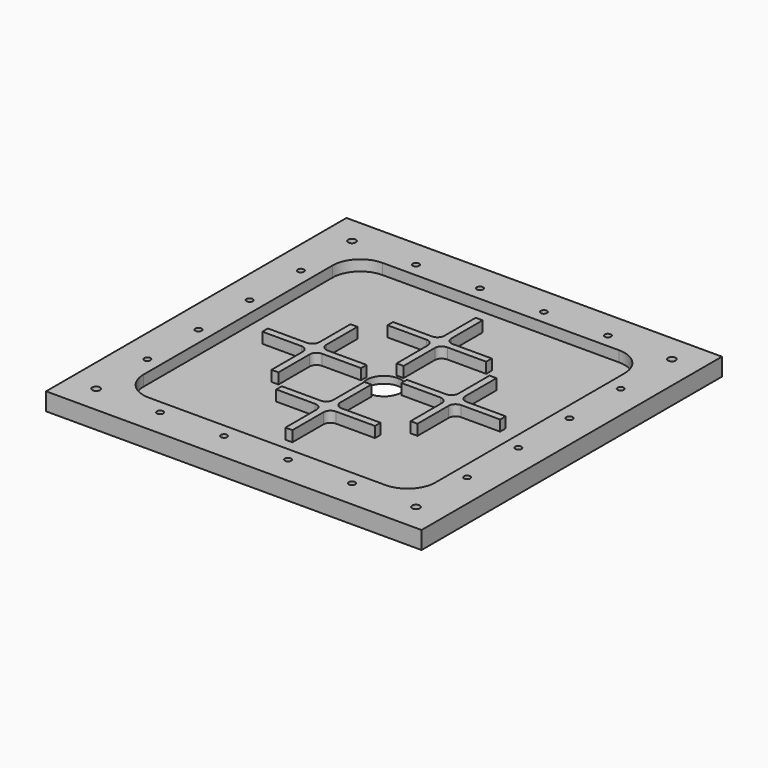
from build123d import *

# Parameters (mm, degrees)
F0_W     = 270
F0_H     = 270
F0_R     = 2.75
F0_R_2   = 2.25
F0_R_3   = 12.5
F1_DEPTH = 12.7
F2_R     = 3.75
F2_R_2   = 2.25
F3_DEPTH = 3.7
F4_R     = 12.5
F5_DEPTH = 7.7
F7_DEPTH = 12.7


with BuildPart() as f1:
    # F0 (on Top) → F1 (new body)
    with BuildSketch(Plane.XY):
        with Locations((135, 135)):
            Rectangle(F0_W, F0_H)
        with Locations((20, 20)):
            Circle(F0_R, mode=Mode.SUBTRACT)
        with Locations((66, 20)):
            Circle(F0_R_2, mode=Mode.SUBTRACT)
        with Locations((20, 66)):
            Circle(F0_R_2, mode=Mode.SUBTRACT)
        with Locations((112, 20)):
            Circle(F0_R_2, mode=Mode.SUBTRACT)
        with Locations((20, 112)):
            Circle(F0_R_2, mode=Mode.SUBTRACT)
        with Locations((158, 20)):
            Circle(F0_R_2, mode=Mode.SUBTRACT)
        with Locations((204, 20)):
            Circle(F0_R_2, mode=Mode.SUBTRACT)
        with Locations((250, 20)):
            Circle(F0_R, mode=Mode.SUBTRACT)
        with Locations((250, 66)):
            Circle(F0_R_2, mode=Mode.SUBTRACT)
        with Locations((250, 112)):
            Circle(F0_R_2, mode=Mode.SUBTRACT)
        with Locations((20, 158)):
            Circle(F0_R_2, mode=Mode.SUBTRACT)
        with Locations((20, 204)):
            Circle(F0_R_2, mode=Mode.SUBTRACT)
        with Locations((20, 250)):
            Circle(F0_R, mode=Mode.SUBTRACT)
        with Locations((66, 250)):
            Circle(F0_R_2, mode=Mode.SUBTRACT)
        with Locations((112, 250)):
            Circle(F0_R_2, mode=Mode.SUBTRACT)
        with Locations((135, 135)):
            Circle(F0_R_3, mode=Mode.SUBTRACT)
        with Locations((250, 158)):
            Circle(F0_R_2, mode=Mode.SUBTRACT)
        with Locations((158, 250)):
            Circle(F0_R_2, mode=Mode.SUBTRACT)
        with Locations((250, 204)):
            Circle(F0_R_2, mode=Mode.SUBTRACT)
        with Locations((204, 250)):
            Circle(F0_R_2, mode=Mode.SUBTRACT)
        with Locations((250, 250)):
            Circle(F0_R, mode=Mode.SUBTRACT)
    extrude(amount=F1_DEPTH)

    # F2 (on face) → F3 (cut)
    with BuildSketch(Plane.XY):
        with Locations((20, 204)):
            Circle(F2_R)
        with Locations((20, 204)):
            Circle(F2_R_2, mode=Mode.SUBTRACT)
        with Locations((66, 250)):
            Circle(F2_R)
        with Locations((66, 250)):
            Circle(F2_R_2, mode=Mode.SUBTRACT)
        with Locations((20, 158)):
            Circle(F2_R)
        with Locations((20, 158)):
            Circle(F2_R_2, mode=Mode.SUBTRACT)
        with Locations((20, 112)):
            Circle(F2_R)
        with Locations((20, 112)):
            Circle(F2_R_2, mode=Mode.SUBTRACT)
        with Locations((20, 66)):
            Circle(F2_R)
        with Locations((20, 66)):
            Circle(F2_R_2, mode=Mode.SUBTRACT)
        with Locations((66, 20)):
            Circle(F2_R)
        with Locations((66, 20)):
            Circle(F2_R_2, mode=Mode.SUBTRACT)
        with Locations((112, 20)):
            Circle(F2_R)
        with Locations((112, 20)):
            Circle(F2_R_2, mode=Mode.SUBTRACT)
        with Locations((158, 20)):
            Circle(F2_R)
        with Locations((158, 20)):
            Circle(F2_R_2, mode=Mode.SUBTRACT)
        with Locations((204, 20)):
            Circle(F2_R)
        with Locations((204, 20)):
            Circle(F2_R_2, mode=Mode.SUBTRACT)
        with Locations((250, 66)):
            Circle(F2_R)
        with Locations((250, 66)):
            Circle(F2_R_2, mode=Mode.SUBTRACT)
        with Locations((250, 112)):
            Circle(F2_R)
        with Locations((250, 112)):
            Circle(F2_R_2, mode=Mode.SUBTRACT)
        with Locations((250, 158)):
            Circle(F2_R)
        with Locations((250, 158)):
            Circle(F2_R_2, mode=Mode.SUBTRACT)
        with Locations((250, 204)):
            Circle(F2_R)
        with Locations((250, 204)):
            Circle(F2_R_2, mode=Mode.SUBTRACT)
        with Locations((112, 250)):
            Circle(F2_R)
        with Locations((112, 250)):
            Circle(F2_R_2, mode=Mode.SUBTRACT)
        with Locations((158, 250)):
            Circle(F2_R)
        with Locations((158, 250)):
            Circle(F2_R_2, mode=Mode.SUBTRACT)
        with Locations((204, 250)):
            Circle(F2_R)
        with Locations((204, 250)):
            Circle(F2_R_2, mode=Mode.SUBTRACT)
    extrude(amount=F3_DEPTH, mode=Mode.SUBTRACT)

    # F4 (on face) → F5 (cut)
    with BuildSketch(Plane.XY.offset(12.7)):
        with BuildLine():
            Line((220, 240), (50, 240))
            ThreePointArc((50, 240), (35.857864, 234.142136), (30, 220))
            Line((30, 220), (30, 50))
            ThreePointArc((30, 50), (35.857864, 35.857864), (50, 30))
            Line((50, 30), (220, 30))
            ThreePointArc((220, 30), (234.142136, 35.857864), (240, 50))
            Line((240, 50), (240, 220))
            ThreePointArc((240, 220), (234.142136, 234.142136), (220, 240))
        make_face()
        with Locations((135, 135)):
            Circle(F4_R, mode=Mode.SUBTRACT)
    extrude(amount=-F5_DEPTH, mode=Mode.SUBTRACT)

    # F6 (on face) → F7 (join)
    with BuildSketch(Plane.XY):
        with BuildLine():
            Line((87.5, 170.5), (82.5, 170.5))
            Line((82.5, 170.5), (82.5, 142.5))
            ThreePointArc((82.5, 142.5), (81.035534, 138.964466), (77.5, 137.5))
            Line((77.5, 137.5), (49.5, 137.5))
            Line((49.5, 137.5), (49.5, 132.5))
            Line((49.5, 132.5), (77.5, 132.5))
            ThreePointArc((77.5, 132.5), (81.035534, 131.035534), (82.5, 127.5))
            Line((82.5, 127.5), (82.5, 99.5))
            Line((82.5, 99.5), (87.5, 99.5))
            Line((87.5, 99.5), (87.5, 127.5))
            ThreePointArc((87.5, 127.5), (88.964466, 131.035534), (92.5, 132.5))
            Line((92.5, 132.5), (120.5, 132.5))
            Line((120.5, 132.5), (120.5, 137.5))
            Line((120.5, 137.5), (92.5, 137.5))
            ThreePointArc((92.5, 137.5), (88.964466, 138.964466), (87.5, 142.5))
            Line((87.5, 142.5), (87.5, 170.5))
        make_face()
        with BuildLine():
            Line((182.5, 170.5), (182.5, 142.5))
            ThreePointArc((182.5, 142.5), (181.035534, 138.964466), (177.5, 137.5))
            Line((177.5, 137.5), (149.5, 137.5))
            Line((149.5, 137.5), (149.5, 132.5))
            Line((149.5, 132.5), (177.5, 132.5))
            ThreePointArc((177.5, 132.5), (181.035534, 131.035534), (182.5, 127.5))
            Line((182.5, 127.5), (182.5, 99.5))
            Line((182.5, 99.5), (187.5, 99.5))
            Line((187.5, 99.5), (187.5, 127.5))
            ThreePointArc((187.5, 127.5), (188.964466, 131.035534), (192.5, 132.5))
            Line((192.5, 132.5), (220.5, 132.5))
            Line((220.5, 132.5), (220.5, 137.5))
            Line((220.5, 137.5), (192.5, 137.5))
            ThreePointArc((192.5, 137.5), (188.964466, 138.964466), (187.5, 142.5))
            Line((187.5, 142.5), (187.5, 170.5))
            Line((187.5, 170.5), (182.5, 170.5))
        make_face()
        with BuildLine():
            Line((137.5, 192.5), (137.5, 220.5))
            Line((137.5, 220.5), (132.5, 220.5))
            Line((132.5, 220.5), (132.5, 192.5))
            ThreePointArc((132.5, 192.5), (131.035534, 188.964466), (127.5, 187.5))
            Line((127.5, 187.5), (99.5, 187.5))
            Line((99.5, 187.5), (99.5, 182.5))
            Line((99.5, 182.5), (127.5, 182.5))
            ThreePointArc((127.5, 182.5), (131.035534, 181.035534), (132.5, 177.5))
            Line((132.5, 177.5), (132.5, 149.5))
            Line((132.5, 149.5), (137.5, 149.5))
            Line((137.5, 149.5), (137.5, 177.5))
            ThreePointArc((137.5, 177.5), (138.964466, 181.035534), (142.5, 182.5))
            Line((142.5, 182.5), (170.5, 182.5))
            Line((170.5, 182.5), (170.5, 187.5))
            Line((170.5, 187.5), (142.5, 187.5))
            ThreePointArc((142.5, 187.5), (138.964466, 188.964466), (137.5, 192.5))
        make_face()
        with BuildLine():
            Line((132.5, 77.5), (132.5, 49.5))
            Line((132.5, 49.5), (137.5, 49.5))
            Line((137.5, 49.5), (137.5, 77.5))
            ThreePointArc((137.5, 77.5), (138.964466, 81.035534), (142.5, 82.5))
            Line((142.5, 82.5), (170.5, 82.5))
            Line((170.5, 82.5), (170.5, 87.5))
            Line((170.5, 87.5), (142.5, 87.5))
            ThreePointArc((142.5, 87.5), (138.964466, 88.964466), (137.5, 92.5))
            Line((137.5, 92.5), (137.5, 120.5))
            Line((137.5, 120.5), (132.5, 120.5))
            Line((132.5, 120.5), (132.5, 92.5))
            ThreePointArc((132.5, 92.5), (131.035534, 88.964466), (127.5, 87.5))
            Line((127.5, 87.5), (99.5, 87.5))
            Line((99.5, 87.5), (99.5, 82.5))
            Line((99.5, 82.5), (127.5, 82.5))
            ThreePointArc((127.5, 82.5), (131.035534, 81.035534), (132.5, 77.5))
        make_face()
    extrude(amount=F7_DEPTH)


solid = f1.part
